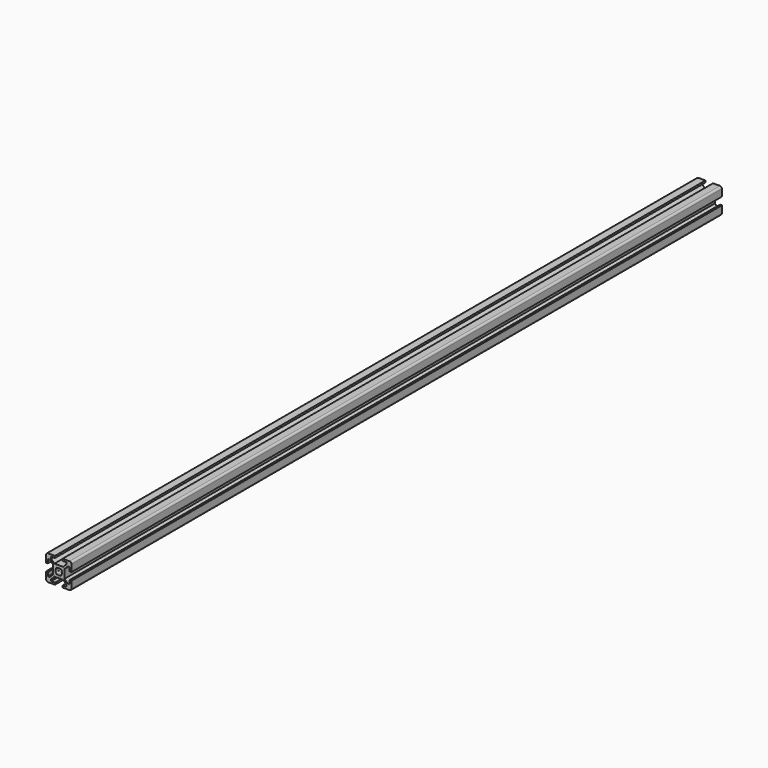
from build123d import *

# Parameters (mm, degrees)
F1_DEPTH = 640


with BuildPart() as f1:
    # F0 (on Front) → F1 (new body)
    with BuildSketch(Plane.XZ):
        with BuildLine():
            Line((3, -10), (8.5, -10))
            ThreePointArc((8.5, -10), (9.5606601718, -9.5606601718), (10, -8.5))
            Line((10, -8.5), (10, -3))
            Line((10, -3), (8.5, -3))
            Line((8.5, -3), (8.5, -6))
            Line((8.5, -6), (7.0606601718, -6))
            Line((7.0606601718, -6), (4.5, -3.4393398282))
            Line((4.5, -3.4393398282), (4.5, 3.4393398282))
            Line((4.5, 3.4393398282), (7.0606601718, 6))
            Line((7.0606601718, 6), (8.5, 6))
            Line((8.5, 6), (8.5, 3))
            Line((8.5, 3), (10, 3))
            Line((10, 3), (10, 8.5))
            ThreePointArc((10, 8.5), (9.5606601718, 9.5606601718), (8.5, 10))
            Line((8.5, 10), (3, 10))
            Line((3, 10), (3, 8.5))
            Line((3, 8.5), (6, 8.5))
            Line((6, 8.5), (6, 7.0606601718))
            Line((6, 7.0606601718), (3.4393398282, 4.5))
            Line((3.4393398282, 4.5), (-3.4393398282, 4.5))
            Line((-3.4393398282, 4.5), (-6, 7.0606601718))
            Line((-6, 7.0606601718), (-6, 8.5))
            Line((-6, 8.5), (-3, 8.5))
            Line((-3, 8.5), (-3, 10))
            Line((-3, 10), (-8.5, 10))
            ThreePointArc((-8.5, 10), (-9.5606601718, 9.5606601718), (-10, 8.5))
            Line((-10, 8.5), (-10, 3))
            Line((-10, 3), (-8.5, 3))
            Line((-8.5, 3), (-8.5, 6))
            Line((-8.5, 6), (-7.0606601718, 6))
            Line((-7.0606601718, 6), (-4.5, 3.4393398282))
            Line((-4.5, 3.4393398282), (-4.5, -3.4393398282))
            Line((-4.5, -3.4393398282), (-7.0606601718, -6))
            Line((-7.0606601718, -6), (-8.5, -6))
            Line((-8.5, -6), (-8.5, -3))
            Line((-8.5, -3), (-10, -3))
            Line((-10, -3), (-10, -8.5))
            ThreePointArc((-10, -8.5), (-9.5606601718, -9.5606601718), (-8.5, -10))
            Line((-8.5, -10), (-3, -10))
            Line((-3, -10), (-3, -8.5))
            Line((-3, -8.5), (-6, -8.5))
            Line((-6, -8.5), (-6, -7.0606601718))
            Line((-6, -7.0606601718), (-3.4393398282, -4.5))
            Line((-3.4393398282, -4.5), (3.4393398282, -4.5))
            Line((3.4393398282, -4.5), (6, -7.0606601718))
            Line((6, -7.0606601718), (6, -8.5))
            Line((6, -8.5), (3, -8.5))
            Line((3, -8.5), (3, -10))
        make_face()
        with BuildLine():
            ThreePointArc((-1.1560121095, 2.2166722813), (0, 2.5), (1.1560121095, 2.2166722813))
            Line((1.1560121095, 2.2166722813), (1.4393398282, 2.5))
            Line((1.4393398282, 2.5), (2.5, 1.4393398282))
            Line((2.5, 1.4393398282), (2.2166722813, 1.1560121095))
            ThreePointArc((2.2166722813, 1.1560121095), (2.5, 0), (2.2166722813, -1.1560121095))
            Line((2.2166722813, -1.1560121095), (2.5, -1.4393398282))
            Line((2.5, -1.4393398282), (1.4393398282, -2.5))
            Line((1.4393398282, -2.5), (1.1560121095, -2.2166722813))
            ThreePointArc((1.1560121095, -2.2166722813), (0, -2.5), (-1.1560121095, -2.2166722813))
            Line((-1.1560121095, -2.2166722813), (-1.4393398282, -2.5))
            Line((-1.4393398282, -2.5), (-2.5, -1.4393398282))
            Line((-2.5, -1.4393398282), (-2.2166722813, -1.1560121095))
            ThreePointArc((-2.2166722813, -1.1560121095), (-2.5, 0), (-2.2166722813, 1.1560121095))
            Line((-2.2166722813, 1.1560121095), (-2.5, 1.4393398282))
            Line((-2.5, 1.4393398282), (-1.4393398282, 2.5))
            Line((-1.4393398282, 2.5), (-1.1560121095, 2.2166722813))
        make_face(mode=Mode.SUBTRACT)
    extrude(amount=F1_DEPTH)


solid = f1.part
